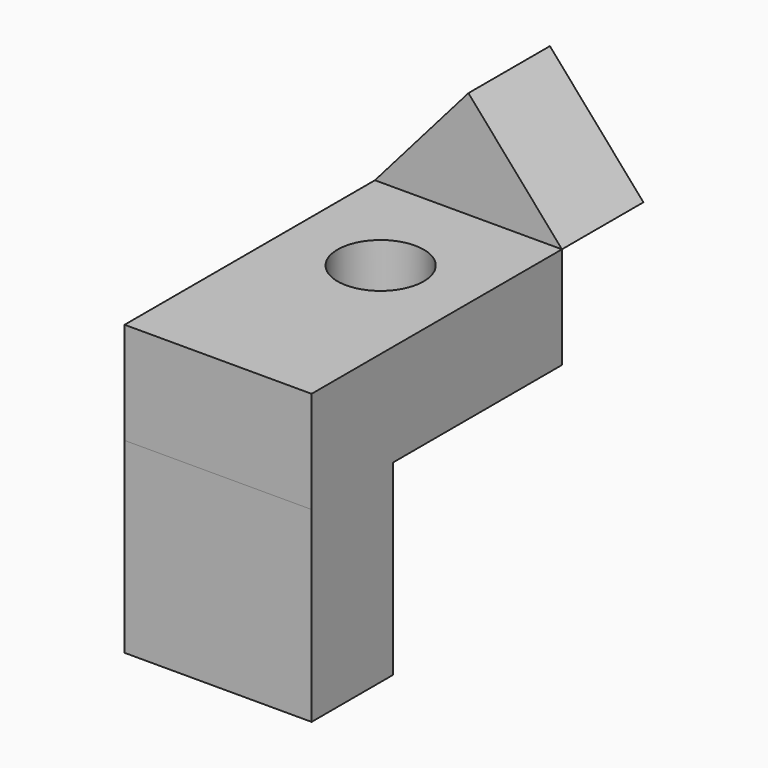
from build123d import *

# Parameters (mm, degrees)
F0_W     = 45.903142
F0_H     = 45.903142
F1_DEPTH = 25
F2_W     = 45.903142
F2_H     = 76.812831
F2_R     = 10.574429
F3_DEPTH = 25
F5_DEPTH = 25


with BuildPart() as f1:
    # F0 (on Front) → F1 (new body)
    with BuildSketch(Plane.XZ):
        Rectangle(F0_W, F0_H)
    extrude(amount=F1_DEPTH)

    # F2 (on face) → F3 (join)
    with BuildSketch(Plane.XY.offset(22.951571)):
        with Locations((0, 13.406415)):
            Rectangle(F2_W, F2_H)
        with Locations((0, 24.875654)):
            Circle(F2_R, mode=Mode.SUBTRACT)
    extrude(amount=F3_DEPTH)


with BuildPart() as f5:
    # F4 (on face) → F5 (new body)
    with BuildSketch(Plane(origin=(0, 51.812831, 0), x_dir=(-1, 0, 0), z_dir=(0, 1, 0))):
        Polygon((0, 74.246213), (-22.951571, 47.951571), (-20.019267, 47.951571), (22.951571, 47.951571), align=None)
    extrude(amount=F5_DEPTH)


solid = Compound([f1.part, f5.part])
